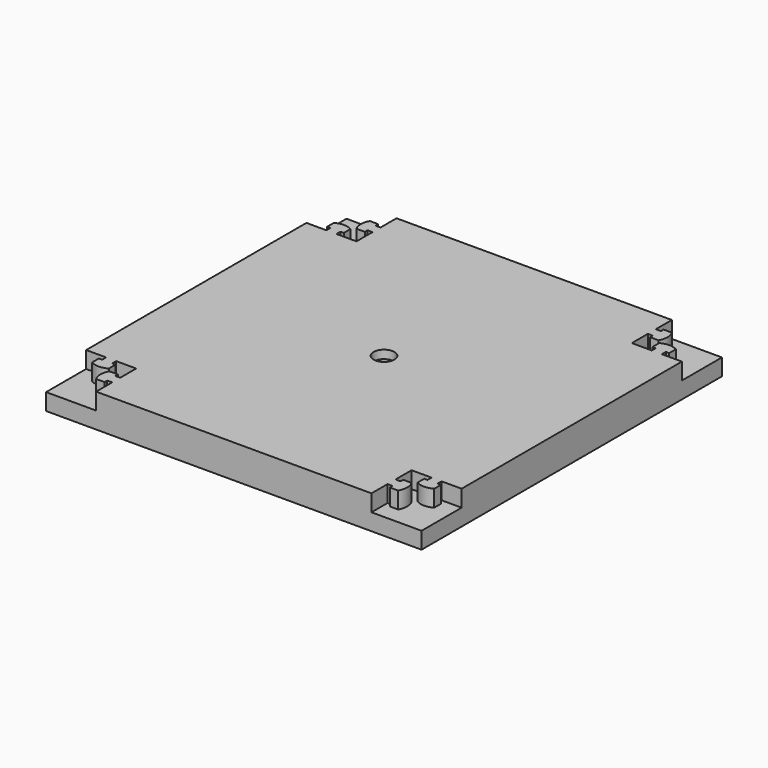
from build123d import *

# Parameters (mm, degrees)
F1_DEPTH  = 40
F0_W      = 60
F0_H      = 60
F3_DEPTH  = 20
F5_DEPTH  = 20
F6_W      = 40
F6_H      = 40
F6_R      = 12.5
F7_DEPTH  = 30
F7_FACE_R = 12.5
F8_DEPTH  = 40


with BuildPart() as f1:
    # F0 (on Top) → F1 (new body)
    with BuildSketch(Plane.XY):
        Polygon((165, 165), (165, 225), (-165, 225), (-165, 165), (-225, 165), (-225, -165), (-165, -165), (-165, -225), (165, -225), (165, -165), (225, -165), (225, 165), align=None)
    extrude(amount=F1_DEPTH)

    # F0 (on Top) → F3 (join)
    with BuildSketch(Plane.XY):
        with Locations((195, 195)):
            Rectangle(F0_W, F0_H)
        Polygon((165, 165), (165, 225), (-165, 225), (-165, 165), (-225, 165), (-225, -165), (-165, -165), (-165, -225), (165, -225), (165, -165), (225, -165), (225, 165), align=None)
        with Locations((-195, 195)):
            Rectangle(F0_W, F0_H)
        with Locations((195, -195)):
            Rectangle(F0_W, F0_H)
        with Locations((-195, -195)):
            Rectangle(F0_W, F0_H)
    extrude(amount=F3_DEPTH)

    # F4 (on face) → F5 (join, through all)
    with BuildSketch(Plane.XY.offset(40)):
        with BuildLine():
            Line((-201, 171), (-201, 165))
            Line((-201, 165), (-189, 165))
            Line((-189, 165), (-189, 171))
            Line((-189, 171), (-185, 171))
            Line((-185, 171), (-185, 181))
            ThreePointArc((-185, 181), (-195, 183.679492), (-205, 181))
            Line((-205, 181), (-205, 171))
            Line((-205, 171), (-201, 171))
        make_face()
        with BuildLine():
            Line((-171, 189), (-165, 189))
            Line((-165, 189), (-165, 201))
            Line((-165, 201), (-171, 201))
            Line((-171, 201), (-171, 205))
            Line((-171, 205), (-181, 205))
            ThreePointArc((-181, 205), (-183.679492, 195), (-181, 185))
            Line((-181, 185), (-171, 185))
            Line((-171, 185), (-171, 189))
        make_face()
        with BuildLine():
            Line((181, 205), (171, 205))
            Line((171, 205), (171, 201))
            Line((171, 201), (165, 201))
            Line((165, 201), (165, 189))
            Line((165, 189), (171, 189))
            Line((171, 189), (171, 185))
            Line((171, 185), (181, 185))
            ThreePointArc((181, 185), (183.679492, 195), (181, 205))
        make_face()
        with BuildLine():
            Line((185, 181), (185, 171))
            Line((185, 171), (189, 171))
            Line((189, 171), (189, 165))
            Line((189, 165), (201, 165))
            Line((201, 165), (201, 171))
            Line((201, 171), (205, 171))
            Line((205, 171), (205, 181))
            ThreePointArc((205, 181), (195, 183.679492), (185, 181))
        make_face()
        with BuildLine():
            Line((-181, -205), (-171, -205))
            Line((-171, -205), (-171, -201))
            Line((-171, -201), (-165, -201))
            Line((-165, -201), (-165, -189))
            Line((-165, -189), (-171, -189))
            Line((-171, -189), (-171, -185))
            Line((-171, -185), (-181, -185))
            ThreePointArc((-181, -185), (-183.679492, -195), (-181, -205))
        make_face()
        with BuildLine():
            Line((-185, -181), (-185, -171))
            Line((-185, -171), (-189, -171))
            Line((-189, -171), (-189, -165))
            Line((-189, -165), (-201, -165))
            Line((-201, -165), (-201, -171))
            Line((-201, -171), (-205, -171))
            Line((-205, -171), (-205, -181))
            ThreePointArc((-205, -181), (-195, -183.679492), (-185, -181))
        make_face()
        with BuildLine():
            Line((205, -181), (205, -171))
            Line((205, -171), (201, -171))
            Line((201, -171), (201, -165))
            Line((201, -165), (189, -165))
            Line((189, -165), (189, -171))
            Line((189, -171), (185, -171))
            Line((185, -171), (185, -181))
            ThreePointArc((185, -181), (195, -183.679492), (205, -181))
        make_face()
        with BuildLine():
            Line((181, -185), (171, -185))
            Line((171, -185), (171, -189))
            Line((171, -189), (165, -189))
            Line((165, -189), (165, -201))
            Line((165, -201), (171, -201))
            Line((171, -201), (171, -205))
            Line((171, -205), (181, -205))
            ThreePointArc((181, -205), (183.679492, -195), (181, -185))
        make_face()
    extrude(amount=-F5_DEPTH)

    # F6 (on face) → F7 (cut)
    with BuildSketch(Plane(origin=(0, 0, 0), x_dir=(1, 0, 0), z_dir=(0, 0, -1))):
        Rectangle(F6_W, F6_H)
        Circle(F6_R, mode=Mode.SUBTRACT)
    extrude(amount=-F7_DEPTH, mode=Mode.SUBTRACT)

    # F7_face (on face) → F8 (cut, through all)
    with BuildSketch(Plane(origin=(0, 0, 0), x_dir=(1, 0, 0), z_dir=(0, 0, -1))):
        Circle(F7_FACE_R)
    extrude(amount=-F8_DEPTH, mode=Mode.SUBTRACT)


solid = f1.part
